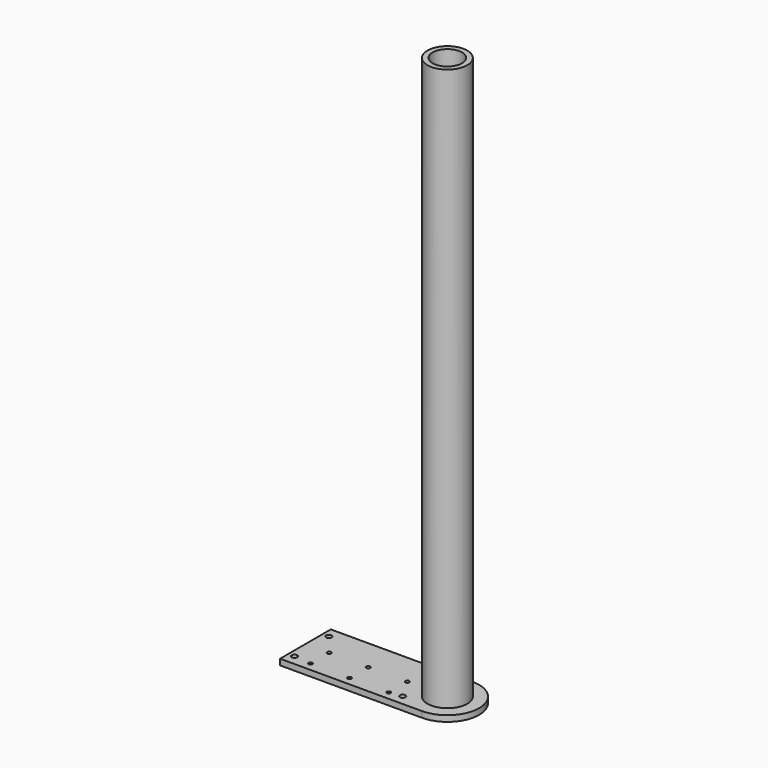
from build123d import *

# Parameters (mm, degrees)
F0_R     = 10.668
F0_R_2   = 7.8994
F1_DEPTH = 304.8
F2_R     = 10.668
F3_DEPTH = 3.175
F4_R     = 1.057375
F5_DEPTH = 3.175
F6_R     = 1.5
F7_DEPTH = 3.175


with BuildPart() as f1:
    # F0 (on Top) → F1 (new body)
    with BuildSketch(Plane.XY):
        Circle(F0_R)
        Circle(F0_R_2, mode=Mode.SUBTRACT)
    extrude(amount=F1_DEPTH)


with BuildPart() as f3:
    # F2 (on face) → F3 (new body)
    with BuildSketch(Plane(origin=(0, 0, 0), x_dir=(1, 0, 0), z_dir=(0, 0, -1))):
        with BuildLine():
            Line((-76.153427, -17.018), (0, -17.018))
            ThreePointArc((0, -17.018), (17.018, 0), (0, 17.018))
            Line((0, 17.018), (-76.153427, 17.018))
            Line((-76.153427, 17.018), (-76.153427, -17.018))
        make_face()
        Circle(F2_R, mode=Mode.SUBTRACT)
    extrude(amount=-F3_DEPTH)

    # F4 (on face) → F5 (cut, through all)
    with BuildSketch(Plane(origin=(0, 0, 0), x_dir=(1, 0, 0), z_dir=(0, 0, -1))):
        with Locations((-63.453427, 0)):
            Circle(F4_R)
        with Locations((-63.453427, 12.5)):
            Circle(F4_R)
        with Locations((-42.453427, 0)):
            Circle(F4_R)
        with Locations((-42.453427, 12.5)):
            Circle(F4_R)
        with Locations((-21.453427, 0)):
            Circle(F4_R)
        with Locations((-21.453427, 12.5)):
            Circle(F4_R)
    extrude(amount=-F5_DEPTH, mode=Mode.SUBTRACT)

    # F6 (on face) → F7 (cut, through all)
    with BuildSketch(Plane(origin=(0, 0, 0), x_dir=(1, 0, 0), z_dir=(0, 0, -1))):
        with Locations((-72.753735, 11.5)):
            Circle(F6_R)
        with Locations((-72.753735, -11.5)):
            Circle(F6_R)
        with Locations((-14.753735, 11.5)):
            Circle(F6_R)
        with Locations((-14.753735, -11.5)):
            Circle(F6_R)
    extrude(amount=-F7_DEPTH, mode=Mode.SUBTRACT)


solid = Compound([f1.part, f3.part])
